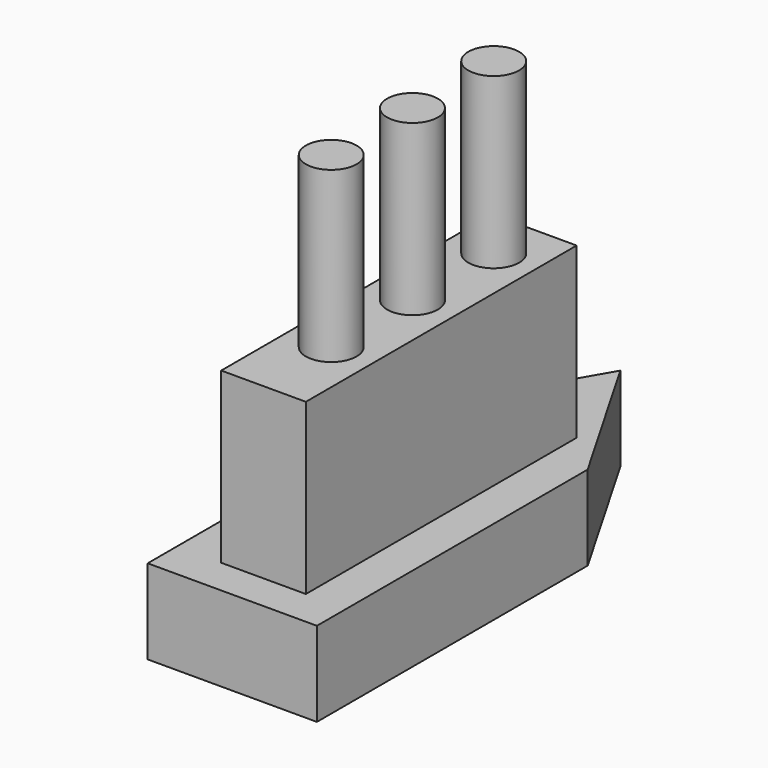
from build123d import *

# Parameters (mm, degrees)
F1_DEPTH = 12.7
F2_W     = 12.7
F2_H     = 50.8
F3_DEPTH = 25.4
F4_R     = 3.81
F5_DEPTH = 25.4


with BuildPart() as f1:
    # F0 (on Top) → F1 (new body)
    with BuildSketch(Plane.XY):
        Polygon((-12.7, 18.245806), (-12.7, -32.554194), (12.7, -32.554194), (12.7, 18.245806), (0, 40.242851), align=None)
    extrude(amount=F1_DEPTH)

    # F2 (on face) → F3 (join)
    with BuildSketch(Plane.XY.offset(12.7)):
        with Locations((0.299774, -1.667303)):
            Rectangle(F2_W, F2_H)
    extrude(amount=F3_DEPTH)

    # F4 (on face) → F5 (join)
    with BuildSketch(Plane.XY.offset(38.1)):
        with Locations((0.299774, 16.11553)):
            Circle(F4_R)
        with Locations((0.299774, 0.87553)):
            Circle(F4_R)
        with Locations((0.299774, -14.36447)):
            Circle(F4_R)
    extrude(amount=F5_DEPTH)


solid = f1.part
